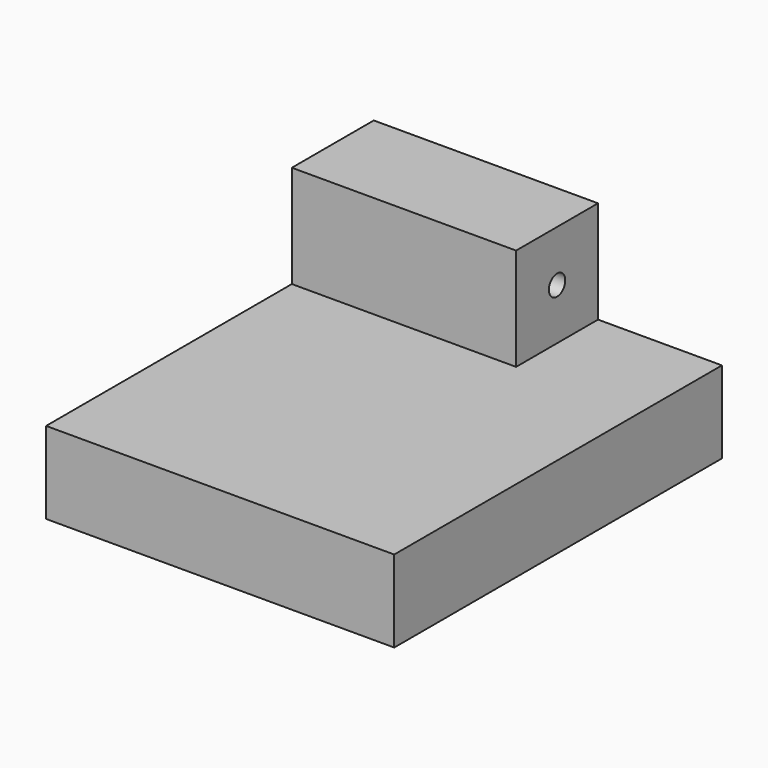
from build123d import *

# Parameters (mm, degrees)
F0_W     = 17
F0_H     = 4
F1_DEPTH = 20
F2_W     = 5
F2_H     = 5
F2_R     = 0.5
F3_DEPTH = 10.95


with BuildPart() as f1:
    # F0 (on Front) → F1 (new body)
    with BuildSketch(Plane.XZ):
        with Locations((-1.271996, 0.765422)):
            Rectangle(F0_W, F0_H)
    extrude(amount=F1_DEPTH)

    # F2 (on face) → F3 (join)
    with BuildSketch(Plane(origin=(-9.771996, 0, 0), x_dir=(0, -1, 0), z_dir=(-1, 0, 0))):
        with Locations((2.5, 5.265422)):
            Rectangle(F2_W, F2_H)
        with Locations((2.5, 5.265422)):
            Circle(F2_R, mode=Mode.SUBTRACT)
    extrude(amount=-F3_DEPTH)


solid = f1.part
